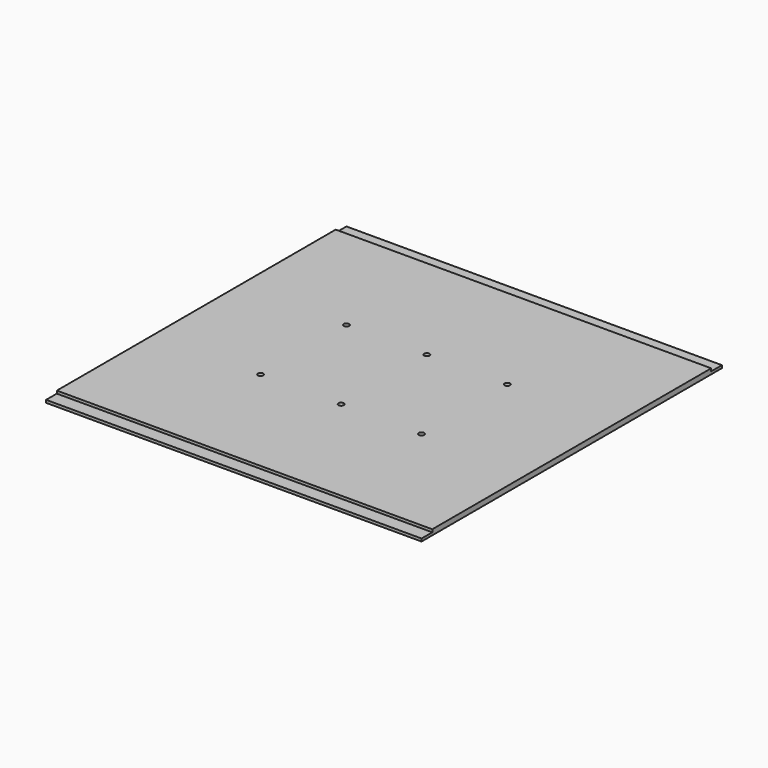
from build123d import *

# Parameters (mm, degrees)
F0_W     = 70
F0_H     = 65
F0_R     = 0.5
F1_DEPTH = 1
F0_H_2   = 2.5
F2_DEPTH = 0.5


with BuildPart() as f1:
    # F0 (on Top) → F1 (new body)
    with BuildSketch(Plane.XY):
        Rectangle(F0_W, F0_H)
        with Locations((-15, -10)):
            Circle(F0_R, mode=Mode.SUBTRACT)
        with Locations((0, -10)):
            Circle(F0_R, mode=Mode.SUBTRACT)
        with Locations((15, -10)):
            Circle(F0_R, mode=Mode.SUBTRACT)
        with Locations((-15, 10)):
            Circle(F0_R, mode=Mode.SUBTRACT)
        with Locations((0, 10)):
            Circle(F0_R, mode=Mode.SUBTRACT)
        with Locations((15, 10)):
            Circle(F0_R, mode=Mode.SUBTRACT)
    extrude(amount=F1_DEPTH)

    # F0 (on Top) → F2 (join)
    with BuildSketch(Plane.XY):
        Rectangle(F0_W, F0_H)
        with Locations((-15, -10)):
            Circle(F0_R, mode=Mode.SUBTRACT)
        with Locations((0, -10)):
            Circle(F0_R, mode=Mode.SUBTRACT)
        with Locations((15, -10)):
            Circle(F0_R, mode=Mode.SUBTRACT)
        with Locations((-15, 10)):
            Circle(F0_R, mode=Mode.SUBTRACT)
        with Locations((0, 10)):
            Circle(F0_R, mode=Mode.SUBTRACT)
        with Locations((15, 10)):
            Circle(F0_R, mode=Mode.SUBTRACT)
        with Locations((0, 33.75)):
            Rectangle(F0_W, F0_H_2)
        with Locations((0, -33.75)):
            Rectangle(F0_W, F0_H_2)
    extrude(amount=F2_DEPTH)


solid = f1.part
